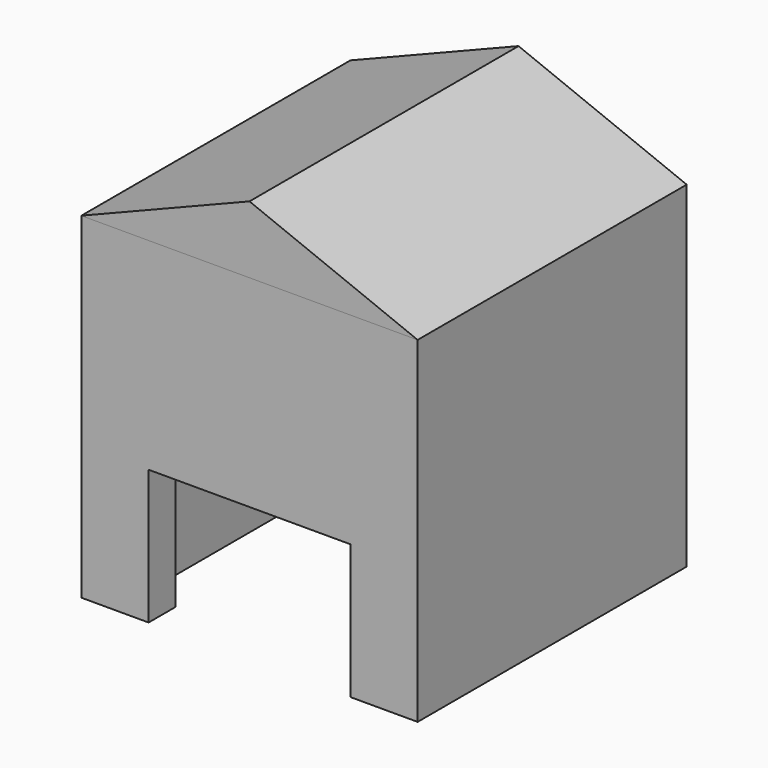
from build123d import *

# Parameters (mm, degrees)
F0_W     = 100
F0_H     = 100
F0_W_2   = 80
F0_H_2   = 80
F1_DEPTH = 100
F2_W     = 60
F2_H     = 40
F3_DEPTH = 10
F5_DEPTH = 100


with BuildPart() as f1:
    # F0 (on Top) → F1 (new body)
    with BuildSketch(Plane.XY):
        with Locations((0, 50)):
            Rectangle(F0_W, F0_H)
        with Locations((0, 50)):
            Rectangle(F0_W_2, F0_H_2, mode=Mode.SUBTRACT)
    extrude(amount=F1_DEPTH)

    # F2 (on face) → F3 (cut, through all)
    with BuildSketch(Plane.XZ):
        with Locations((0, 20)):
            Rectangle(F2_W, F2_H)
    extrude(amount=-F3_DEPTH, mode=Mode.SUBTRACT)


with BuildPart() as f5:
    # F4 (on face) → F5 (new body, through all)
    with BuildSketch(Plane.XZ):
        Polygon((0, 120), (-50, 100), (50, 100), align=None)
    extrude(amount=-F5_DEPTH)


solid = Compound([f1.part, f5.part])
